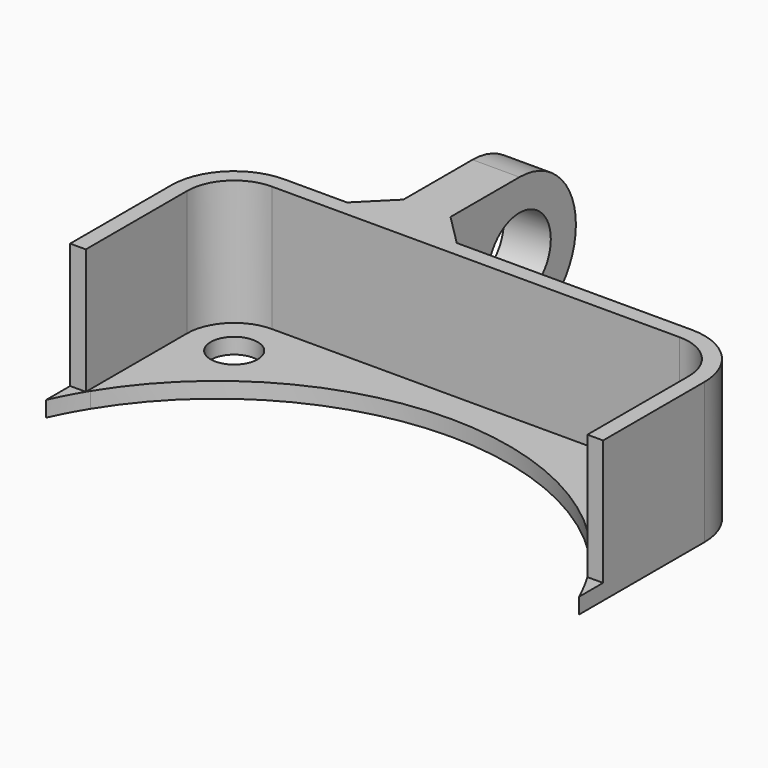
from build123d import *

# Parameters (mm, degrees)
F0_R     = 1.905
F1_DEPTH = 1.27
F3_DEPTH = 10.16
F4_W     = 3.81
F4_H     = 11.43
F5_DEPTH = 15.24
F6_R     = 3.175
F7_DEPTH = 25.4
F8_SIZE  = 2.54


with BuildPart() as f1:
    # F0 (on Top) → F1 (new body)
    with BuildSketch(Plane.XY):
        with BuildLine():
            Line((16.51, 6.561151), (-16.51, 6.561151))
            ThreePointArc((-16.51, 6.561151), (-20.102102, 5.073253), (-21.59, 1.481151))
            Line((-21.59, 1.481151), (-21.59, -8.500309))
            Line((-21.59, -8.500309), (-20.149636, -8.500309))
            ThreePointArc((-20.149636, -8.500309), (0, 2.751151), (20.149636, -8.500309))
            Line((20.149636, -8.500309), (21.59, -8.500309))
            Line((21.59, -8.500309), (21.59, 1.481151))
            ThreePointArc((21.59, 1.481151), (20.102102, 5.073253), (16.51, 6.561151))
        make_face()
        with Locations((-16.51, 1.481151)):
            Circle(F0_R, mode=Mode.SUBTRACT)
        with Locations((16.51, 1.481151)):
            Circle(F0_R, mode=Mode.SUBTRACT)
        with BuildLine():
            Line((-20.149636, -8.500309), (-21.59, -8.500309))
            Line((-21.59, -8.500309), (-21.59, -11.218849))
            ThreePointArc((-21.59, -11.218849), (-20.914037, -9.836151), (-20.149636, -8.500309))
        make_face()
        with BuildLine():
            Line((21.59, -11.218849), (21.59, -8.500309))
            Line((21.59, -8.500309), (20.149636, -8.500309))
            ThreePointArc((20.149636, -8.500309), (20.914037, -9.836151), (21.59, -11.218849))
        make_face()
    extrude(amount=F1_DEPTH)

    # F2 (on face) → F3 (join)
    with BuildSketch(Plane.XY.offset(1.27)):
        with BuildLine():
            Line((21.59, -8.781116), (21.59, 1.481151))
            ThreePointArc((21.59, 1.481151), (20.102102, 5.073253), (16.51, 6.561151))
            Line((16.51, 6.561151), (-16.51, 6.561151))
            ThreePointArc((-16.51, 6.561151), (-20.102102, 5.073253), (-21.59, 1.481151))
            Line((-21.59, 1.481151), (-21.59, -8.781116))
            Line((-21.59, -8.781116), (-20.32, -8.781116))
            Line((-20.32, -8.781116), (-20.32, 1.481151))
            ThreePointArc((-20.32, 1.481151), (-19.204077, 4.175228), (-16.51, 5.291151))
            Line((-16.51, 5.291151), (16.51, 5.291151))
            ThreePointArc((16.51, 5.291151), (19.204077, 4.175228), (20.32, 1.481151))
            Line((20.32, 1.481151), (20.32, -8.781116))
            Line((20.32, -8.781116), (21.59, -8.781116))
        make_face()
    extrude(amount=F3_DEPTH)

    # F4 (on face) → F5 (join)
    with BuildSketch(Plane(origin=(0, 6.561151, 0), x_dir=(-1, 0, 0), z_dir=(0, 1, 0))):
        with Locations((6.985, 5.715)):
            Rectangle(F4_W, F4_H)
    extrude(amount=F5_DEPTH)

    # F6 (on face) → F7 (cut)
    with BuildSketch(Plane.YZ.offset(-5.08)):
        with BuildLine():
            ThreePointArc((21.801151, 5.715), (20.127266, 1.673885), (16.086151, 0))
            Line((16.086151, 0), (21.801151, 0))
            Line((21.801151, 0), (21.801151, 5.715))
        make_face()
        with Locations((16.086151, 5.715)):
            Circle(F6_R)
        with BuildLine():
            ThreePointArc((16.086151, 11.43), (20.127266, 9.756115), (21.801151, 5.715))
            Line((21.801151, 5.715), (21.801151, 11.43))
            Line((21.801151, 11.43), (16.086151, 11.43))
        make_face()
    extrude(amount=-F7_DEPTH, mode=Mode.SUBTRACT)

    # F8
    f8_edges = [f1.edges().sort_by_distance(p)[0] for p in [
        (-5.08, 6.561151, 5.715),
        (-8.89, 6.561151, 5.715),
    ]]
    chamfer(f8_edges, length=F8_SIZE)


solid = f1.part
